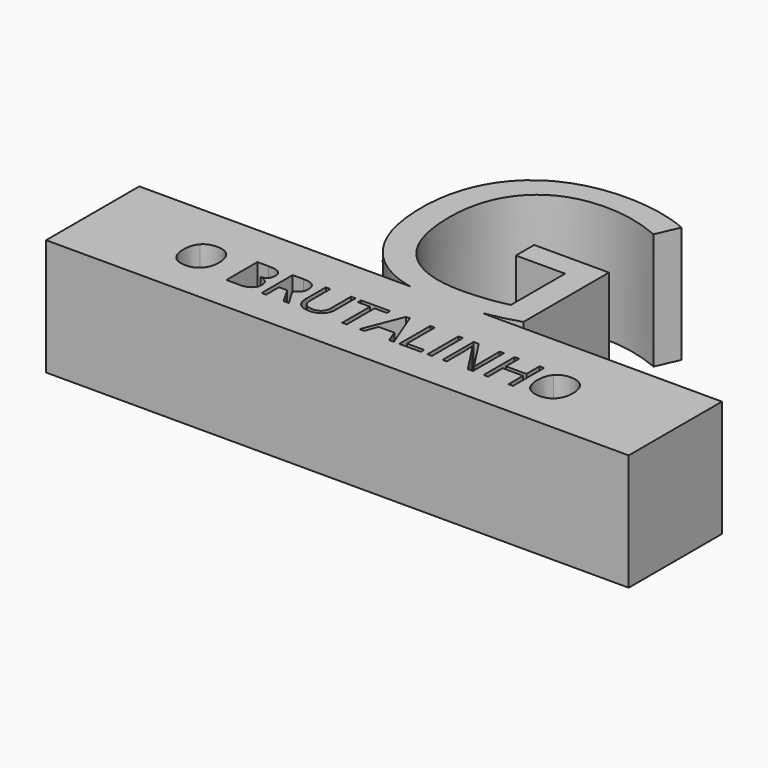
from build123d import *

# Parameters (mm, degrees)
F0_W     = 0.3870485975
F0_H     = 3.330367311
F1_DEPTH = 10


with BuildPart() as f1:
    # F0 (on Top) → F1 (new body)
    with BuildSketch(Plane.XY):
        with BuildLine():
            Line((0, 10), (0, 0))
            Line((0, 0), (50, 0))
            Line((50, 0), (50, 10))
            Line((50, 10), (29.4041138361, 10))
            add(Edge.make_bspline(
                [(29.4041138361, 10), (29.3728696906, 9.9949443122), (29.3416053513, 9.9899837037)],
                knots=[0.9798154392, 0.9798154392, 0.9798154392, 1, 1, 1], degree=2))
            add(Edge.make_bspline(
                [(29.3416053513, 9.9899837037), (27.7926819108, 9.7442211845), (25.7522334319, 9.7442211845)],
                knots=[0, 0, 0, 1, 1, 1], degree=2))
            add(Edge.make_bspline(
                [(25.7522334319, 9.7442211845), (24.3958205565, 9.7442211845), (23.2295331488, 10)],
                knots=[0, 0, 0, 0.3166754984, 0.3166754984, 0.3166754984], degree=2))
            Line((23.2295331488, 10), (0, 10))
        make_face()
        with BuildLine():
            add(Edge.make_bspline(
                [(10.685034908, 5.9653317787), (11.0881194173, 5.5097661036), (11.0881194173, 4.7079705155)],
                knots=[0, 0, 0, 1, 1, 1], degree=2))
            add(Edge.make_bspline(
                [(11.0881194173, 4.7079705155), (11.0881194173, 3.9083616427), (10.6835770978, 3.4502447998)],
                knots=[0, 0, 0, 1, 1, 1], degree=2))
            add(Edge.make_bspline(
                [(10.6835770978, 3.4502447998), (10.2790347784, 2.992127957), (9.5596054643, 2.992127957)],
                knots=[0, 0, 0, 1, 1, 1], degree=2))
            add(Edge.make_bspline(
                [(9.5596054643, 2.992127957), (8.8241402385, 2.992127957), (8.424335802, 3.4422268439)],
                knots=[0, 0, 0, 1, 1, 1], degree=2))
            add(Edge.make_bspline(
                [(8.424335802, 3.4422268439), (8.0245313656, 3.8923257309), (8.0245313656, 4.712343946)],
                knots=[0, 0, 0, 1, 1, 1], degree=2))
            add(Edge.make_bspline(
                [(8.0245313656, 4.712343946), (8.0245313656, 5.5258020154), (8.4254291597, 5.9733497346)],
                knots=[0, 0, 0, 1, 1, 1], degree=2))
            add(Edge.make_bspline(
                [(8.4254291597, 5.9733497346), (8.8263269537, 6.4208974538), (9.5639788948, 6.4208974538)],
                knots=[0, 0, 0, 1, 1, 1], degree=2))
            add(Edge.make_bspline(
                [(9.5639788948, 6.4208974538), (10.2819503987, 6.4208974538), (10.685034908, 5.9653317787)],
                knots=[0, 0, 0, 1, 1, 1], degree=2))
        make_face(mode=Mode.SUBTRACT)
        with BuildLine():
            Line((13.042313937, 3.038048977), (13.042313937, 6.368416288))
            Line((13.042313937, 6.368416288), (13.9833303954, 6.368416288))
            add(Edge.make_bspline(
                [(13.9833303954, 6.368416288), (14.6459051132, 6.368416288), (14.9422050283, 6.1701541062)],
                knots=[0, 0, 0, 1, 1, 1], degree=2))
            add(Edge.make_bspline(
                [(14.9422050283, 6.1701541062), (15.2385049433, 5.9718919244), (15.2385049433, 5.5440246424)],
                knots=[0, 0, 0, 1, 1, 1], degree=2))
            add(Edge.make_bspline(
                [(15.2385049433, 5.5440246424), (15.2385049433, 5.2473602748), (15.0734079427, 5.0549293337)],
                knots=[0, 0, 0, 1, 1, 1], degree=2))
            add(Edge.make_bspline(
                [(15.0734079427, 5.0549293337), (14.908310942, 4.8624983925), (14.5912372322, 4.8056437963)],
                knots=[0, 0, 0, 1, 1, 1], degree=2))
            Line((14.5912372322, 4.8056437963), (14.5912372322, 4.7830477388))
            add(Edge.make_bspline(
                [(14.5912372322, 4.7830477388), (15.3500274206, 4.6533026345), (15.3500274206, 3.9856255812)],
                knots=[0, 0, 0, 1, 1, 1], degree=2))
            add(Edge.make_bspline(
                [(15.3500274206, 3.9856255812), (15.3500274206, 3.5395356721), (15.0482607174, 3.2887923246)],
                knots=[0, 0, 0, 1, 1, 1], degree=2))
            add(Edge.make_bspline(
                [(15.0482607174, 3.2887923246), (14.7464940143, 3.038048977), (14.2041886347, 3.038048977)],
                knots=[0, 0, 0, 1, 1, 1], degree=2))
            Line((14.2041886347, 3.038048977), (13.042313937, 3.038048977))
        make_face(mode=Mode.SUBTRACT)
        with BuildLine():
            Line((17.1475073481, 4.4229686292), (16.4521319017, 4.4229686292))
            Line((16.4521319017, 4.4229686292), (16.4521319017, 3.038048977))
            Line((16.4521319017, 3.038048977), (16.0650833042, 3.038048977))
            Line((16.0650833042, 3.038048977), (16.0650833042, 6.368416288))
            Line((16.0650833042, 6.368416288), (16.9784013695, 6.368416288))
            add(Edge.make_bspline(
                [(16.9784013695, 6.368416288), (17.5914105419, 6.368416288), (17.8840659315, 6.1337088522)],
                knots=[0, 0, 0, 1, 1, 1], degree=2))
            add(Edge.make_bspline(
                [(17.8840659315, 6.1337088522), (18.1767213212, 5.8990014164), (18.1767213212, 5.4273998296)],
                knots=[0, 0, 0, 1, 1, 1], degree=2))
            add(Edge.make_bspline(
                [(18.1767213212, 5.4273998296), (18.1767213212, 4.767011827), (17.5068575526, 4.5344911065)],
                knots=[0, 0, 0, 1, 1, 1], degree=2))
            Line((17.5068575526, 4.5344911065), (18.411428757, 3.038048977))
            Line((18.411428757, 3.038048977), (17.9536763667, 3.038048977))
            Line((17.9536763667, 3.038048977), (17.1475073481, 4.4229686292))
        make_face(mode=Mode.SUBTRACT)
        with BuildLine():
            Line((21.0763057298, 6.368416288), (21.4633543274, 6.368416288))
            Line((21.4633543274, 6.368416288), (21.4633543274, 4.2137728712))
            add(Edge.make_bspline(
                [(21.4633543274, 4.2137728712), (21.4633543274, 3.6437690986), (21.1193111295, 3.3179485278)],
                knots=[0, 0, 0, 1, 1, 1], degree=2))
            add(Edge.make_bspline(
                [(21.1193111295, 3.3179485278), (20.7752679317, 2.992127957), (20.1739212407, 2.992127957)],
                knots=[0, 0, 0, 1, 1, 1], degree=2))
            add(Edge.make_bspline(
                [(20.1739212407, 2.992127957), (19.5725745496, 2.992127957), (19.2434739059, 3.3204996956)],
                knots=[0, 0, 0, 1, 1, 1], degree=2))
            add(Edge.make_bspline(
                [(19.2434739059, 3.3204996956), (18.9143732623, 3.6488714342), (18.9143732623, 4.2225197322)],
                knots=[0, 0, 0, 1, 1, 1], degree=2))
            Line((18.9143732623, 4.2225197322), (18.9143732623, 6.368416288))
            Line((18.9143732623, 6.368416288), (19.3021507649, 6.368416288))
            Line((19.3021507649, 6.368416288), (19.3021507649, 4.1955502442))
            add(Edge.make_bspline(
                [(19.3021507649, 4.1955502442), (19.3021507649, 3.7786165384), (19.5299336024, 3.5552071314)],
                knots=[0, 0, 0, 1, 1, 1], degree=2))
            add(Edge.make_bspline(
                [(19.5299336024, 3.5552071314), (19.7577164399, 3.3317977243), (20.1994329185, 3.3317977243)],
                knots=[0, 0, 0, 1, 1, 1], degree=2))
            add(Edge.make_bspline(
                [(20.1994329185, 3.3317977243), (20.6207400548, 3.3317977243), (20.8485228923, 3.556300489)],
                knots=[0, 0, 0, 1, 1, 1], degree=2))
            add(Edge.make_bspline(
                [(20.8485228923, 3.556300489), (21.0763057298, 3.7808032537), (21.0763057298, 4.1999236747)],
                knots=[0, 0, 0, 1, 1, 1], degree=2))
            Line((21.0763057298, 4.1999236747), (21.0763057298, 6.368416288))
        make_face(mode=Mode.SUBTRACT)
        Polygon((23.3694411118, 6.0243730902), (23.3694411118, 3.038048977), (22.9823925143, 3.038048977), (22.9823925143, 6.0243730902), (21.9276668634, 6.0243730902), (21.9276668634, 6.368416288), (24.4241667627, 6.368416288), (24.4241667627, 6.0243730902), align=None, mode=Mode.SUBTRACT)
        Polygon((27.4199666419, 3.038048977), (27.0190688478, 3.038048977), (26.6043218573, 4.0971480584), (25.2696966556, 4.0971480584), (24.8600520006, 3.038048977), (24.4679010675, 3.038048977), (25.7843036422, 6.3822654845), (26.110124213, 6.3822654845), align=None, mode=Mode.SUBTRACT)
        Polygon((29.7342402712, 3.038048977), (27.8777190322, 3.038048977), (27.8777190322, 6.368416288), (28.2647676297, 6.368416288), (28.2647676297, 3.3886523206), (29.7342402712, 3.3886523206), align=None, mode=Mode.SUBTRACT)
        with Locations((30.492666007, 4.7032326325)):
            Rectangle(F0_W, F0_H, mode=Mode.SUBTRACT)
        with BuildLine():
            Line((34.200970602, 6.368416288), (34.200970602, 3.038048977))
            Line((34.200970602, 3.038048977), (33.7592541235, 3.038048977))
            Line((33.7592541235, 3.038048977), (31.9391781385, 5.8326710541))
            Line((31.9391781385, 5.8326710541), (31.9209555115, 5.8326710541))
            add(Edge.make_bspline(
                [(31.9209555115, 5.8326710541), (31.9574007655, 5.3406601251), (31.9574007655, 4.93101547)],
                knots=[0, 0, 0, 1, 1, 1], degree=2))
            Line((31.9574007655, 4.93101547), (31.9574007655, 3.038048977))
            Line((31.9574007655, 3.038048977), (31.5995083712, 3.038048977))
            Line((31.5995083712, 3.038048977), (31.5995083712, 6.368416288))
            Line((31.5995083712, 6.368416288), (32.0368514192, 6.368416288))
            Line((32.0368514192, 6.368416288), (33.8525539738, 3.5847277871))
            Line((33.8525539738, 3.5847277871), (33.8707766008, 3.5847277871))
            add(Edge.make_bspline(
                [(33.8707766008, 3.5847277871), (33.8664031703, 3.6459558138), (33.8503672585, 3.9797943405)],
                knots=[0, 0, 0, 1, 1, 1], degree=2))
            add(Edge.make_bspline(
                [(33.8503672585, 3.9797943405), (33.8343313468, 4.3136328672), (33.8387047772, 4.457227168)],
                knots=[0, 0, 0, 1, 1, 1], degree=2))
            Line((33.8387047772, 4.457227168), (33.8387047772, 6.368416288))
            Line((33.8387047772, 6.368416288), (34.200970602, 6.368416288))
        make_face(mode=Mode.SUBTRACT)
        Polygon((37.6450471055, 6.368416288), (37.6450471055, 3.038048977), (37.257998508, 3.038048977), (37.257998508, 4.6051948992), (35.5035239802, 4.6051948992), (35.5035239802, 3.038048977), (35.1164753826, 3.038048977), (35.1164753826, 6.368416288), (35.5035239802, 6.368416288), (35.5035239802, 4.9514248123), (37.257998508, 4.9514248123), (37.257998508, 6.368416288), align=None, mode=Mode.SUBTRACT)
        with BuildLine():
            add(Edge.make_bspline(
                [(41.0461182092, 5.9653317787), (41.4492027185, 5.5097661036), (41.4492027185, 4.7079705155)],
                knots=[0, 0, 0, 1, 1, 1], degree=2))
            add(Edge.make_bspline(
                [(41.4492027185, 4.7079705155), (41.4492027185, 3.9083616427), (41.0446603991, 3.4502447998)],
                knots=[0, 0, 0, 1, 1, 1], degree=2))
            add(Edge.make_bspline(
                [(41.0446603991, 3.4502447998), (40.6401180796, 2.992127957), (39.9206887656, 2.992127957)],
                knots=[0, 0, 0, 1, 1, 1], degree=2))
            add(Edge.make_bspline(
                [(39.9206887656, 2.992127957), (39.1852235397, 2.992127957), (38.7854191033, 3.4422268439)],
                knots=[0, 0, 0, 1, 1, 1], degree=2))
            add(Edge.make_bspline(
                [(38.7854191033, 3.4422268439), (38.3856146669, 3.8923257309), (38.3856146669, 4.712343946)],
                knots=[0, 0, 0, 1, 1, 1], degree=2))
            add(Edge.make_bspline(
                [(38.3856146669, 4.712343946), (38.3856146669, 5.5258020154), (38.7865124609, 5.9733497346)],
                knots=[0, 0, 0, 1, 1, 1], degree=2))
            add(Edge.make_bspline(
                [(38.7865124609, 5.9733497346), (39.187410255, 6.4208974538), (39.925062196, 6.4208974538)],
                knots=[0, 0, 0, 1, 1, 1], degree=2))
            add(Edge.make_bspline(
                [(39.925062196, 6.4208974538), (40.6430336999, 6.4208974538), (41.0461182092, 5.9653317787)],
                knots=[0, 0, 0, 1, 1, 1], degree=2))
        make_face(mode=Mode.SUBTRACT)
        with BuildLine():
            add(Edge.make_bspline(
                [(23.2295331488, 10), (20.7129104052, 10.5519212333), (19.0815364816, 12.2947817832)],
                knots=[0.3166754984, 0.3166754984, 0.3166754984, 1, 1, 1], degree=2))
            Line((23.2295331488, 10), (29.4041138361, 10))
            add(Edge.make_bspline(
                [(32.3898866821, 10.7148798739), (30.9207926722, 10.2454173253), (29.4041138361, 10)],
                knots=[0, 0, 0, 0.9798154392, 0.9798154392, 0.9798154392], degree=2))
            Line((32.3898866821, 10.7148798739), (32.3898866821, 19.8927675665))
            Line((32.3898866821, 19.8927675665), (25.9752784073, 19.8927675665))
            Line((25.9752784073, 19.8927675665), (25.9752784073, 17.9307978752))
            Line((25.9752784073, 17.9307978752), (30.1924806279, 17.9307978752))
            Line((30.1924806279, 17.9307978752), (30.1924806279, 12.1233675891))
            add(Edge.make_bspline(
                [(26.3594114205, 11.6690167132), (28.3213811118, 11.6690167132), (30.1924806279, 12.1233675891)],
                knots=[0, 0, 0, 1, 1, 1], degree=2))
            add(Edge.make_bspline(
                [(20.8803529038, 13.643377792), (22.7452567261, 11.6690167132), (26.3594114205, 11.6690167132)],
                knots=[0, 0, 0, 1, 1, 1], degree=2))
            add(Edge.make_bspline(
                [(19.0154490815, 19.4384166906), (19.0154490815, 15.6177388708), (20.8803529038, 13.643377792)],
                knots=[0, 0, 0, 1, 1, 1], degree=2))
            add(Edge.make_bspline(
                [(20.9526359977, 25.1322592578), (19.0154490815, 23.0814846226), (19.0154490815, 19.4384166906)],
                knots=[0, 0, 0, 1, 1, 1], degree=2))
            add(Edge.make_bspline(
                [(26.3346286455, 27.183033893), (22.8898229139, 27.183033893), (20.9526359977, 25.1322592578)],
                knots=[0, 0, 0, 1, 1, 1], degree=2))
            add(Edge.make_bspline(
                [(31.2540094924, 26.1008527159), (28.6972532, 27.183033893), (26.3346286455, 27.183033893)],
                knots=[0, 0, 0, 1, 1, 1], degree=2))
            Line((31.2540094924, 26.1008527159), (32.1048847691, 28.0380396321))
            add(Edge.make_bspline(
                [(26.4750643708, 29.1450035842), (29.4985629266, 29.1450035842), (32.1048847691, 28.0380396321)],
                knots=[0, 0, 0, 1, 1, 1], degree=2))
            add(Edge.make_bspline(
                [(21.2768773045, 27.9781479258), (23.4970009026, 29.1450035842), (26.4750643708, 29.1450035842)],
                knots=[0, 0, 0, 1, 1, 1], degree=2))
            add(Edge.make_bspline(
                [(17.8754414293, 24.597364363), (19.0567537065, 26.8112922673), (21.2768773045, 27.9781479258)],
                knots=[0, 0, 0, 1, 1, 1], degree=2))
            add(Edge.make_bspline(
                [(16.694129152, 19.4384166906), (16.694129152, 22.3834364588), (17.8754414293, 24.597364363)],
                knots=[0, 0, 0, 1, 1, 1], degree=2))
            add(Edge.make_bspline(
                [(19.0815364816, 12.2947817832), (16.694129152, 14.8453423818), (16.694129152, 19.4384166906)],
                knots=[0, 0, 0, 1, 1, 1], degree=2))
        make_face()
        with BuildLine():
            Line((29.4041138361, 10), (23.2295331488, 10))
            add(Edge.make_bspline(
                [(25.7522334319, 9.7442211845), (24.3958205565, 9.7442211845), (23.2295331488, 10)],
                knots=[0, 0, 0, 0.3166754984, 0.3166754984, 0.3166754984], degree=2))
            add(Edge.make_bspline(
                [(29.3416053513, 9.9899837037), (27.7926819108, 9.7442211845), (25.7522334319, 9.7442211845)],
                knots=[0, 0, 0, 1, 1, 1], degree=2))
            add(Edge.make_bspline(
                [(29.4041138361, 10), (29.3728696906, 9.9949443122), (29.3416053513, 9.9899837037)],
                knots=[0.9798154392, 0.9798154392, 0.9798154392, 1, 1, 1], degree=2))
        make_face()
    extrude(amount=F1_DEPTH)


solid = f1.part
